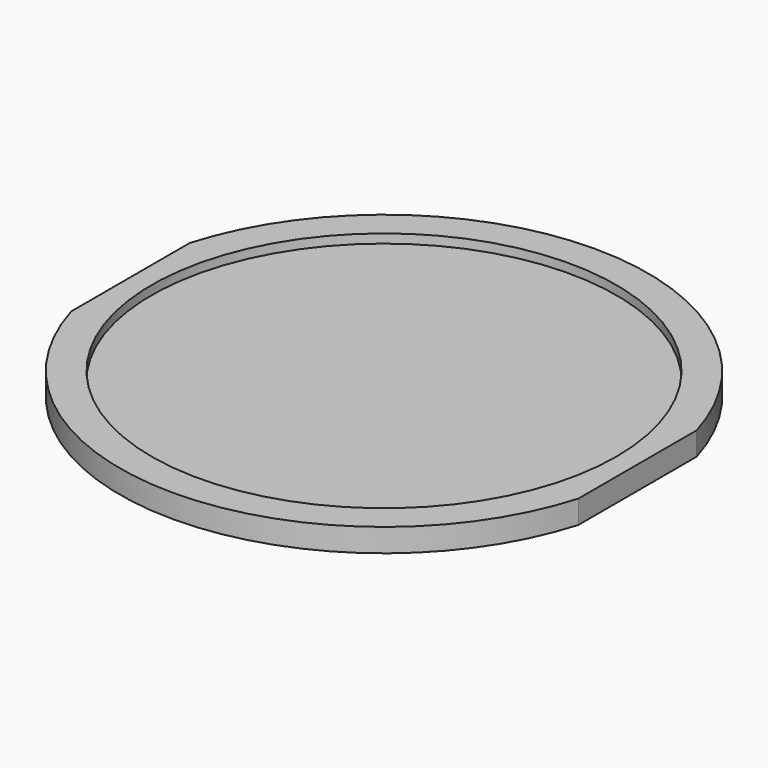
from build123d import *

# Parameters (mm, degrees)
F1_DEPTH = 0.5
F2_R     = 22
F3_DEPTH = 0.85
F4_R     = 22
F5_DEPTH = 0.85


with BuildPart() as f1:
    # F0 (on Top) → F1 (new body)
    with BuildSketch(Plane.XY):
        with BuildLine():
            Line((24, -7), (24, 7))
            ThreePointArc((24, 7), (0, 25), (-24, 7))
            Line((-24, 7), (-24, -7))
            ThreePointArc((-24, -7), (0, -25), (24, -7))
        make_face()
    extrude(amount=F1_DEPTH)

    # F2 (on face) → F3 (join)
    with BuildSketch(Plane.XY.offset(0.5)):
        with BuildLine():
            ThreePointArc((-24, -7), (0, -25), (24, -7))
            Line((24, -7), (24, 7))
            ThreePointArc((24, 7), (0, 25), (-24, 7))
            Line((-24, 7), (-24, -7))
        make_face()
        Circle(F2_R, mode=Mode.SUBTRACT)
    extrude(amount=F3_DEPTH)

    # F4 (on face) → F5 (join)
    with BuildSketch(Plane(origin=(0, 0, 0), x_dir=(1, 0, 0), z_dir=(0, 0, -1))):
        with BuildLine():
            ThreePointArc((24, 7), (0, 25), (-24, 7))
            Line((-24, 7), (-24, -7))
            ThreePointArc((-24, -7), (0, -25), (24, -7))
            Line((24, -7), (24, 7))
        make_face()
        Circle(F4_R, mode=Mode.SUBTRACT)
    extrude(amount=F5_DEPTH)


solid = f1.part
